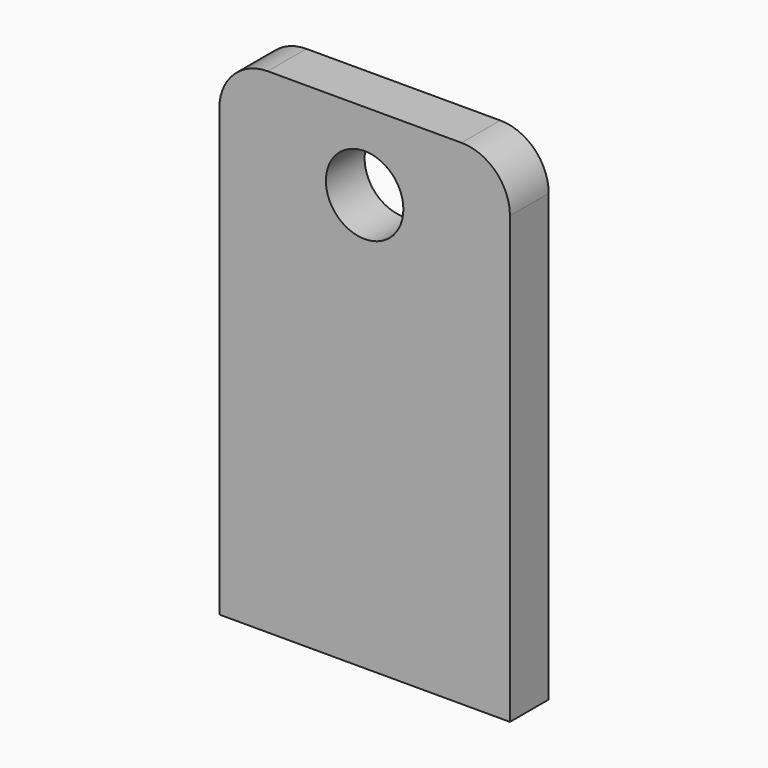
from build123d import *

# Parameters (mm, degrees)
F0_R     = 8
F1_DEPTH = 10


with BuildPart() as f1:
    # F0 (on Front) → F1 (new body)
    with BuildSketch(Plane.XZ):
        with BuildLine():
            Line((0, 92), (0, 0))
            Line((0, 0), (60, 0))
            Line((60, 0), (60, 92))
            ThreePointArc((60, 92), (57.071068, 99.071068), (50, 102))
            Line((50, 102), (10, 102))
            ThreePointArc((10, 102), (2.928932, 99.071068), (0, 92))
        make_face()
        with Locations((30, 86)):
            Circle(F0_R, mode=Mode.SUBTRACT)
    extrude(amount=F1_DEPTH)


solid = f1.part
